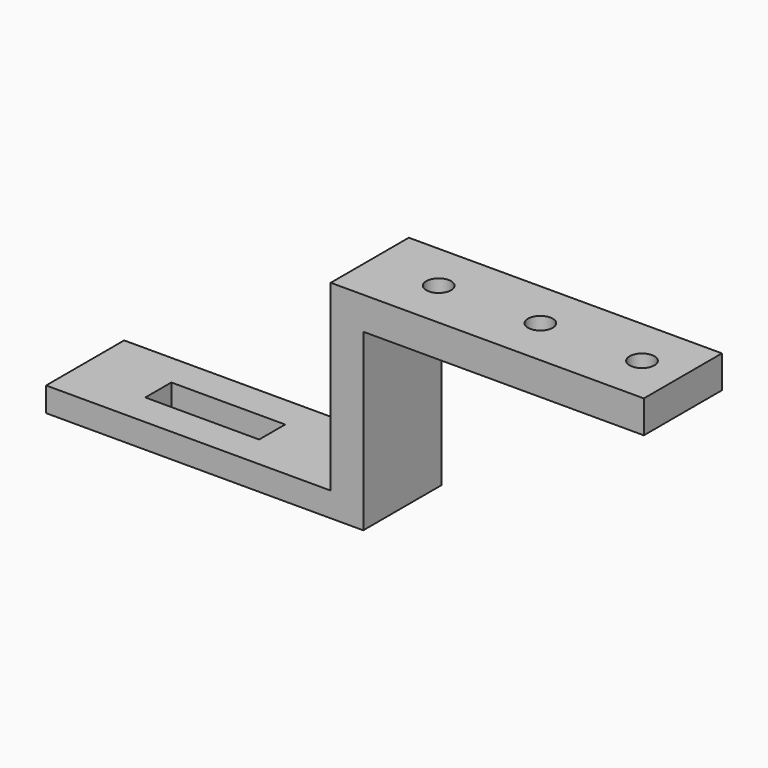
from build123d import *

# Parameters (mm, degrees)
BOX003_W          = 28
BOX003_H          = 8
BOX003_DEPTH      = 10
CYLINDER_R        = 3.05
CYLINDER_DEPTH    = 80
CYLINDER001_R     = 3.05
CYLINDER001_DEPTH = 80
CYLINDER002_R     = 3.05
CYLINDER002_DEPTH = 80
BOX001_W          = 70
BOX001_H          = 24
BOX001_DEPTH      = 45
BOX002_W          = 80
BOX002_H          = 24
BOX002_DEPTH      = 43
BOX_W             = 147
BOX_H             = 24
BOX_DEPTH         = 51


with BuildPart() as slide_hole:
    # Box003 → Box003 (new body)
    with BuildSketch(Plane(origin=(18, 8, 0), x_dir=(1, 0, 0), z_dir=(0, 0, 1))):
        with Locations((14, 4)):
            Rectangle(BOX003_W, BOX003_H)
    extrude(amount=BOX003_DEPTH)


with BuildPart() as hole_r:
    # Cylinder → Cylinder (new body)
    with BuildSketch(Plane(origin=(136.95, 12, 0), x_dir=(1, 0, 0), z_dir=(0, 0, 1))):
        Circle(CYLINDER_R)
    extrude(amount=CYLINDER_DEPTH)


with BuildPart() as hole_c:
    # Cylinder001 → Cylinder001 (new body)
    with BuildSketch(Plane(origin=(111.95, 12, 0), x_dir=(1, 0, 0), z_dir=(0, 0, 1))):
        Circle(CYLINDER001_R)
    extrude(amount=CYLINDER001_DEPTH)


with BuildPart() as hole_l:
    # Cylinder002 → Cylinder002 (new body)
    with BuildSketch(Plane(origin=(86.95, 12, 0), x_dir=(1, 0, 0), z_dir=(0, 0, 1))):
        Circle(CYLINDER002_R)
    extrude(amount=CYLINDER002_DEPTH)


with BuildPart() as left_cut:
    # Box001 → Box001 (new body)
    with BuildSketch(Plane.XY.offset(6)):
        with Locations((35, 12)):
            Rectangle(BOX001_W, BOX001_H)
    extrude(amount=BOX001_DEPTH)


with BuildPart() as right_cut:
    # Box002 → Box002 (new body)
    with BuildSketch(Plane(origin=(78, 0, 0), x_dir=(1, 0, 0), z_dir=(0, 0, 1))):
        with Locations((40, 12)):
            Rectangle(BOX002_W, BOX002_H)
    extrude(amount=BOX002_DEPTH)


with BuildPart() as cut005:
    # Box → Box (new body)
    with BuildSketch(Plane.XY):
        with Locations((73.5, 12)):
            Rectangle(BOX_W, BOX_H)
    extrude(amount=BOX_DEPTH)

    # Cut: cut Right Cut
    add(right_cut.part, mode=Mode.SUBTRACT)

    # Cut001: cut Left Cut
    add(left_cut.part, mode=Mode.SUBTRACT)

    # Cut002: cut Hole L
    add(hole_l.part, mode=Mode.SUBTRACT)

    # Cut003: cut Hole C
    add(hole_c.part, mode=Mode.SUBTRACT)

    # Cut004: cut Hole R
    add(hole_r.part, mode=Mode.SUBTRACT)

    # Cut005: cut Slide Hole
    add(slide_hole.part, mode=Mode.SUBTRACT)


solid = cut005.part
